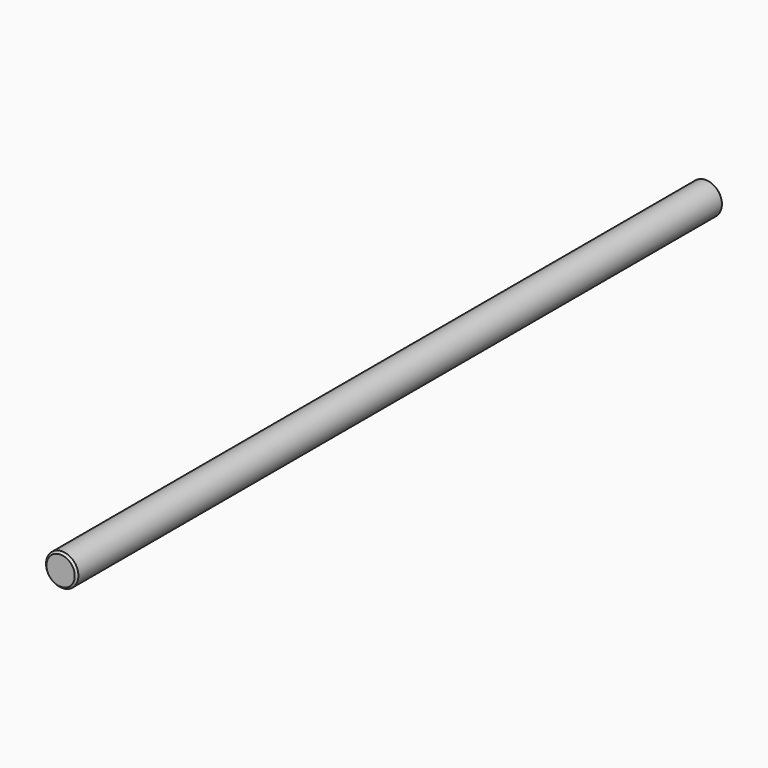
from build123d import *

# Parameters (mm, degrees)
F0_R     = 4
F1_DEPTH = 200
F2_SIZE  = 0.5


with BuildPart() as f1:
    # F0 (on Front) → F1 (new body)
    with BuildSketch(Plane.XZ):
        Circle(F0_R)
    extrude(amount=F1_DEPTH)

    # F2
    f2_edges = [f1.edges().sort_by_distance(p)[0] for p in [
        (4, -100, 0),
        (-4, 0, 0),
        (-4, -200, 0),
    ]]
    chamfer(f2_edges, length=F2_SIZE)


solid = f1.part
